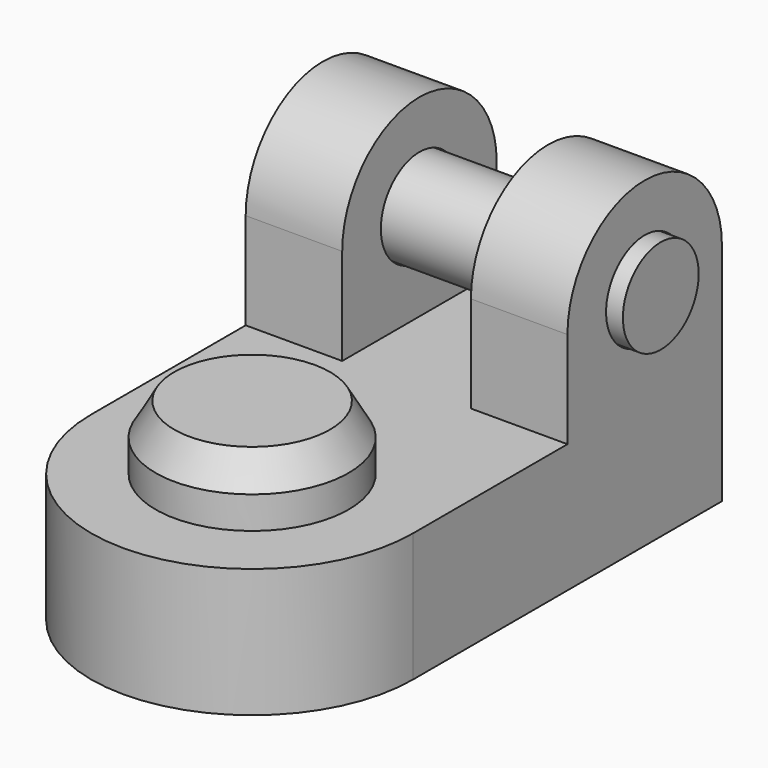
from build123d import *

# Parameters (mm, degrees)
SKETCH_R             = 10
PAD_DEPTH            = 20
PAD001_DEPTH         = 25
SKETCH002_W          = 20
SKETCH002_H          = 30
POCKET_DEPTH         = 85.001
SKETCH003_R          = 7.5
POCKET001_DEPTH      = 25.001
POCKET001_DEPTH_BACK = -25.001
SKETCH004_R          = 7.358208
PAD002_DEPTH         = 27.5


with BuildPart() as obj1:
    # Sketch → Pad (new body)
    with BuildSketch(Plane.XY):
        with BuildLine():
            Line((-25, 0), (-25, 60))
            Line((-25, 60), (25, 60))
            Line((25, 60), (25, 0))
            ThreePointArc((-25, 0), (0, -25), (25, 0))
        make_face()
        Circle(SKETCH_R, mode=Mode.SUBTRACT)
    extrude(amount=PAD_DEPTH)

    # Sketch001 → Pad001 (join, symmetric)
    with BuildSketch(Plane.YZ):
        with BuildLine():
            Line((30, 20), (30, 35))
            ThreePointArc((60, 35), (45, 50), (30, 35))
            Line((60, 35), (60, 20))
            Line((60, 20), (30, 20))
        make_face()
    extrude(amount=PAD001_DEPTH, both=True)

    # Sketch002 → Pocket (cut, through all)
    with BuildSketch(Plane.XZ.offset(-60)):
        with Locations((0, 35)):
            Rectangle(SKETCH002_W, SKETCH002_H)
    extrude(amount=POCKET_DEPTH, mode=Mode.SUBTRACT)

    # Sketch003 → Pocket001 (cut, two sides)
    with BuildSketch(Plane.YZ) as pocket001_sk:
        with Locations((45, 35)):
            Circle(SKETCH003_R)
    extrude(amount=-POCKET001_DEPTH, mode=Mode.SUBTRACT)
    extrude(pocket001_sk.sketch, amount=-POCKET001_DEPTH_BACK, mode=Mode.SUBTRACT)


with BuildPart() as bolzen:
    # Sketch004 → Pad002 (new body, symmetric)
    with BuildSketch(Plane.YZ):
        with Locations((45, 35)):
            Circle(SKETCH004_R)
    extrude(amount=PAD002_DEPTH, both=True)


with BuildPart() as auflage:
    # Sketch005 → Revolution (revolve)
    with BuildSketch(Plane.YZ):
        Polygon((0, 30), (12.113249, 30), (15, 25), (15, 20), (10, 20), (10, 7), (8.267949, 4), (0, 4), align=None)
    revolve(axis=Axis((0, 0, 0), (0, 0, 1)))


solid = Compound([obj1.part, bolzen.part, auflage.part])
